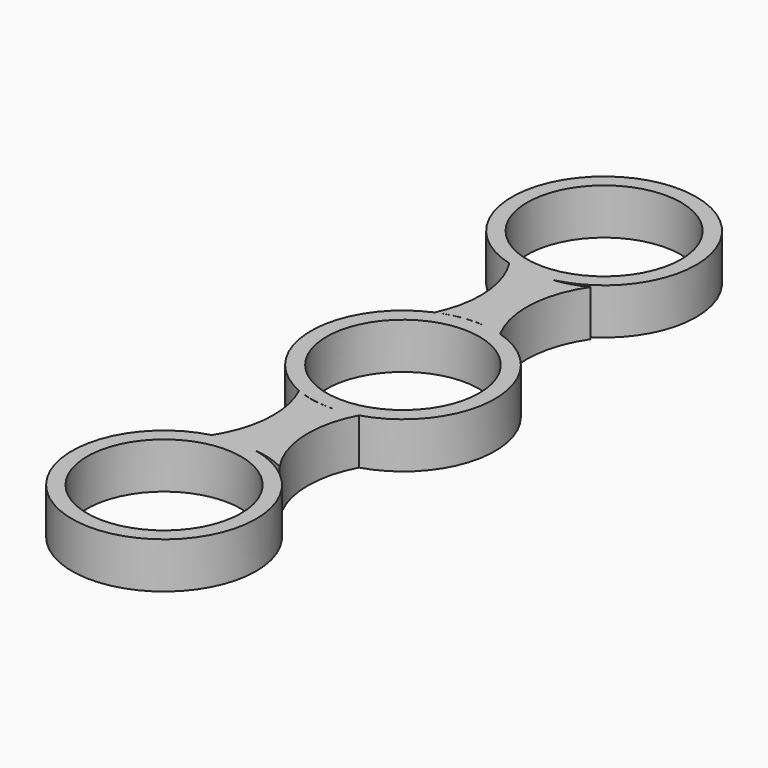
from build123d import *

# Parameters (mm, degrees)
F0_R     = 12.714699
F0_R_2   = 10.551867
F1_DEPTH = 6.35
F3_DEPTH = 6.35
F4_R     = 12.723011
F4_R_2   = 10.633663
F5_DEPTH = 6.35


with BuildPart() as f1:
    # F0 (on Top) → F1 (new body)
    with BuildSketch(Plane.XY):
        Circle(F0_R)
        Circle(F0_R_2, mode=Mode.SUBTRACT)
    extrude(amount=F1_DEPTH)

    # F2 (on Top) → F3 (join)
    with BuildSketch(Plane.XY):
        with BuildLine():
            ThreePointArc((4.443993, -26.840774), (1.994112, -19.590243), (3.689282, -12.127099))
            ThreePointArc((3.689282, -12.127099), (-0.691024, -12.712131), (-4.990178, -11.689086))
            ThreePointArc((-4.990178, -11.689086), (-3.674645, -19.507252), (-6.686923, -26.840774))
            ThreePointArc((-6.686923, -26.840774), (-1.121465, -25.492814), (4.443993, -26.840774))
        make_face()
    extrude(amount=F3_DEPTH)

    # F4 (on Top) → F5 (join)
    with BuildSketch(Plane.XY):
        with Locations((-2.609686, -37.986754)):
            Circle(F4_R)
        with Locations((-2.609686, -37.986754)):
            Circle(F4_R_2, mode=Mode.SUBTRACT)
    extrude(amount=F5_DEPTH)

    # F6: F1 across plane


with BuildPart() as f1_1:
    add(f1.part)
    add(f1.part.mirror(Plane.XZ))


solid = f1_1.part
